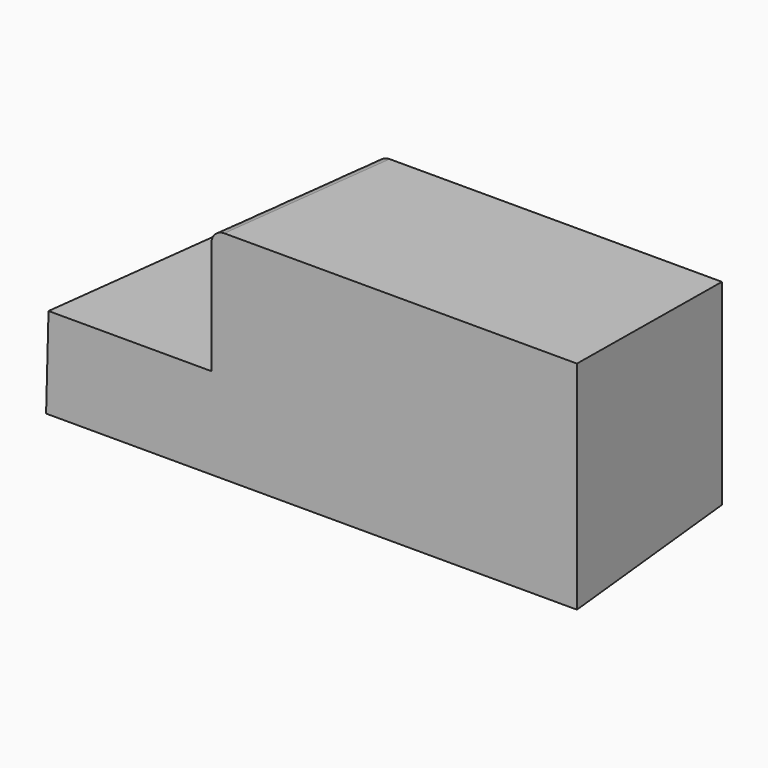
from build123d import *

# Parameters (mm, degrees)
F1_DEPTH = 76.2
F1_TAPER = -3
F2_R     = 5.08


with BuildPart() as f1:
    # F0 (on Front) → F1 (new body)
    with BuildSketch(Plane.XZ):
        Polygon((-113.6696115136, 0), (-114.4149824977, -27.811139822), (86.0907509923, -27.811139822), (86.0907509923, 49.3343062699), (-49.5674014091, 49.3343062699), (-49.5674014091, 0), align=None)
    extrude(amount=F1_DEPTH, taper=F1_TAPER)

    # F2
    f2_edges = [f1.edges().sort_by_distance(p)[0] for p in [
        (-51.564138, -38.1, 51.331043),
    ]]
    fillet(f2_edges, radius=F2_R)


solid = f1.part
